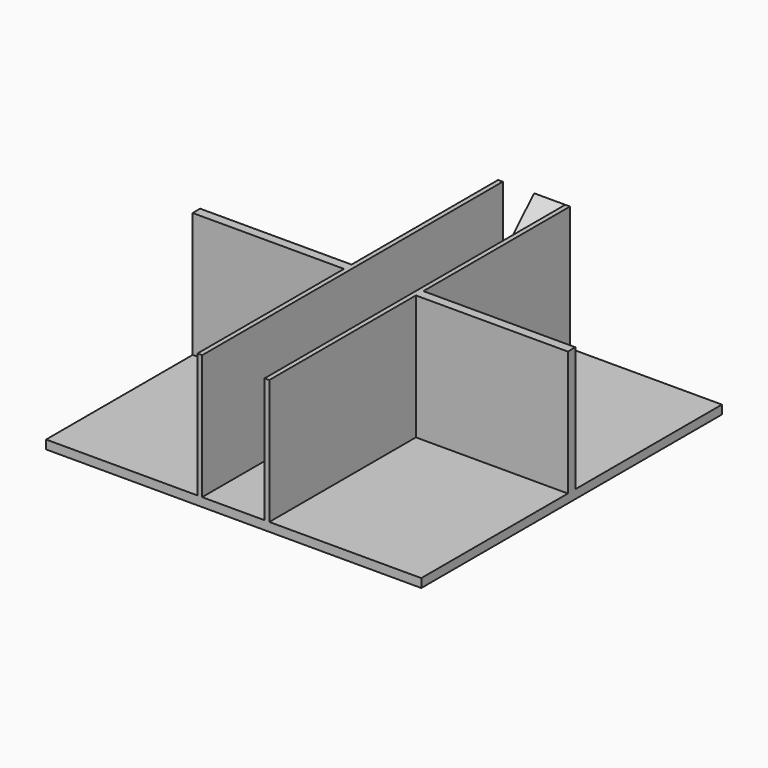
from build123d import *

# Parameters (mm, degrees)
F0_W     = 152.5379121304
F0_H     = 152.7792811394
F1_DEPTH = 3.556
F2_W     = 12.7
F2_H     = 50.8
F3_DEPTH = 50.8
F5_DEPTH = 25.4
F6_W     = 61.5432790112
F6_H     = 1.905
F7_DEPTH = 50.8


with BuildPart() as f1:
    # F0 (on Top) → F1 (new body)
    with BuildSketch(Plane.XY):
        with Locations((0.1206770539, 0)):
            Rectangle(F0_W, F0_H)
    extrude(amount=F1_DEPTH)

    # F2 (on face) → F3 (join)
    with BuildSketch(Plane.XY.offset(3.556)):
        with Locations((6.35, 50.9896405697)):
            Rectangle(F2_W, F2_H)
    extrude(amount=F3_DEPTH)

    # F4 (on face) → F5 (cut)
    with BuildSketch(Plane.YZ.offset(12.7)):
        Polygon((25.5896405697, 3.556), (76.3896405697, 54.356), (25.5896405697, 54.356), align=None)
    extrude(amount=-F5_DEPTH, mode=Mode.SUBTRACT)

    # F6 (on face) → F7 (join)
    with BuildSketch(Plane.XY.offset(3.556)):
        with Locations((-45.3766395056, 0.9525)):
            Rectangle(F6_W, F6_H)
        with Locations((-45.3766395056, -0.9525)):
            Rectangle(F6_W, F6_H)
        Polygon((-12.7, 0), (-12.7, 25.5896405697), (-12.7, 76.3896405697), (-14.605, 76.3896405697), (-14.605, 1.905), (-14.605, 0), align=None)
        Polygon((-14.605, -76.3896405697), (-12.7, -76.3896405697), (-12.7, 0), (-14.605, 0), (-14.605, -1.905), align=None)
        Polygon((14.605, 76.3896405697), (12.7, 76.3896405697), (12.7, 25.5896405697), (12.7, 0), (14.605, 0), (14.605, 1.905), align=None)
        Polygon((14.605, 0), (12.7, 0), (12.7, -76.3896405697), (14.605, -76.3896405697), (14.605, -1.905), align=None)
        Polygon((76.1482790112, 1.905), (14.605, 1.905), (14.605, 0), (76.3896331191, 0), (76.3896331191, 1.905), align=None)
        Polygon((76.3896331191, 0), (14.605, 0), (14.605, -1.905), (76.1482790112, -1.905), (76.3896331191, -1.905), align=None)
    extrude(amount=F7_DEPTH)


solid = f1.part
